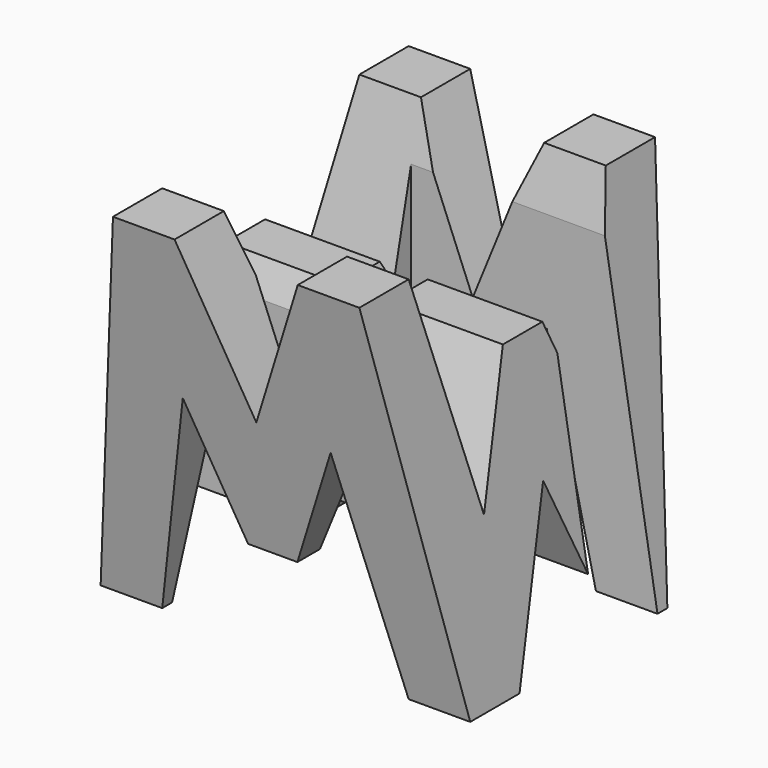
from build123d import *

# Parameters (mm, degrees)
F0_W     = 38.1
F0_H     = 38.1
F1_DEPTH = 38.1
F5_DEPTH = 38.1
F7_DEPTH = 38.1
F8_W     = 25.4
F8_H     = 7.62
F9_DEPTH = 38.1


with BuildPart() as f1:
    # F0 (on Front) → F1 (new body)
    with BuildSketch(Plane.XZ):
        with Locations((19.05, 19.05)):
            Rectangle(F0_W, F0_H)
    extrude(amount=F1_DEPTH)

    # F4 (on face) → F5 (cut)
    with BuildSketch(Plane.YZ.offset(38.1)):
        Polygon((-31.75, 0), (-38.1, 38.1), (-38.1, 0), align=None)
        Polygon((-11.43, 15.875), (-6.35, 38.1), (-31.75, 38.1), (-26.67, 15.875), (-21.59, 28.575), (-16.51, 28.575), align=None)
        Polygon((0, 0), (0, 38.1), (-6.35, 0), align=None)
        Polygon((-25.4, 0), (-12.7, 0), (-19.05, 15.875), align=None)
    extrude(amount=-F5_DEPTH, mode=Mode.SUBTRACT)

    # F6 (on offset) → F7 (cut)
    with BuildSketch(Plane.XZ.offset(38.1)):
        Polygon((0, 38.1), (0, 0), (6.35, 38.1), align=None)
        Polygon((25.4, 38.1), (12.7, 38.1), (19.05, 22.499983), align=None)
        Polygon((31.75, 38.1), (38.1, 0), (38.1, 38.1), align=None)
        Polygon((11.43, 22.225), (6.35, 0), (31.75, 0), (26.67, 22.225), (21.59, 9.799983), (16.51, 9.799983), align=None)
    extrude(amount=-F7_DEPTH, mode=Mode.SUBTRACT)

    # F8 (on offset) → F9 (cut)
    with BuildSketch(Plane.XY.offset(38.1)):
        with Locations((25.4, -11.43)):
            Rectangle(F8_W, F8_H)
        with Locations((12.7, -26.67)):
            Rectangle(F8_W, F8_H)
    extrude(amount=-F9_DEPTH, mode=Mode.SUBTRACT)


solid = f1.part
